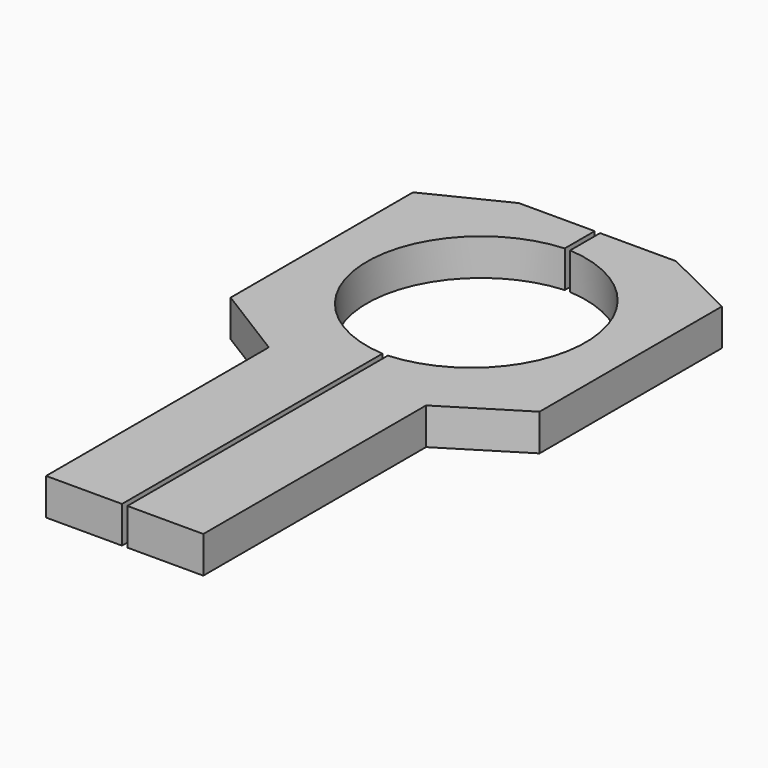
from build123d import *

# Parameters (mm, degrees)
F0_W     = 13.135664
F0_H     = 48.168876
F1_DEPTH = 6.35


with BuildPart() as f1:
    # F0 (on Top) → F1 (new body)
    with BuildSketch(Plane.XY):
        with BuildLine():
            Line((-13.60173, 0), (-0.466066, 0))
            Line((-0.466066, 0), (-0.466066, 8.153327))
            ThreePointArc((-0.466066, 8.153327), (-18.923, 27.870937), (-0.466066, 47.588548))
            Line((-0.466066, 47.588548), (-0.466066, 54.06511))
            Line((-0.466066, 54.06511), (-13.60173, 54.06511))
            Line((-13.60173, 54.06511), (-26.725137, 47.588548))
            Line((-26.725137, 47.588548), (-26.725137, 8.153327))
            Line((-26.725137, 8.153327), (-13.60173, 0))
        make_face()
        with BuildLine():
            Line((0.466066, 8.153327), (0.466066, 0))
            Line((0.466066, 0), (13.60173, 0))
            Line((13.60173, 0), (26.725137, 8.153327))
            Line((26.725137, 8.153327), (26.725137, 47.588548))
            Line((26.725137, 47.588548), (13.60173, 54.06511))
            Line((13.60173, 54.06511), (0.466066, 54.06511))
            Line((0.466066, 54.06511), (0.466066, 47.588548))
            ThreePointArc((0.466066, 47.588548), (18.923, 27.870937), (0.466066, 8.153327))
        make_face()
        with Locations((7.033898, -24.084438)):
            Rectangle(F0_W, F0_H)
        with Locations((-7.033898, -24.084438)):
            Rectangle(F0_W, F0_H)
    extrude(amount=F1_DEPTH)


solid = f1.part
